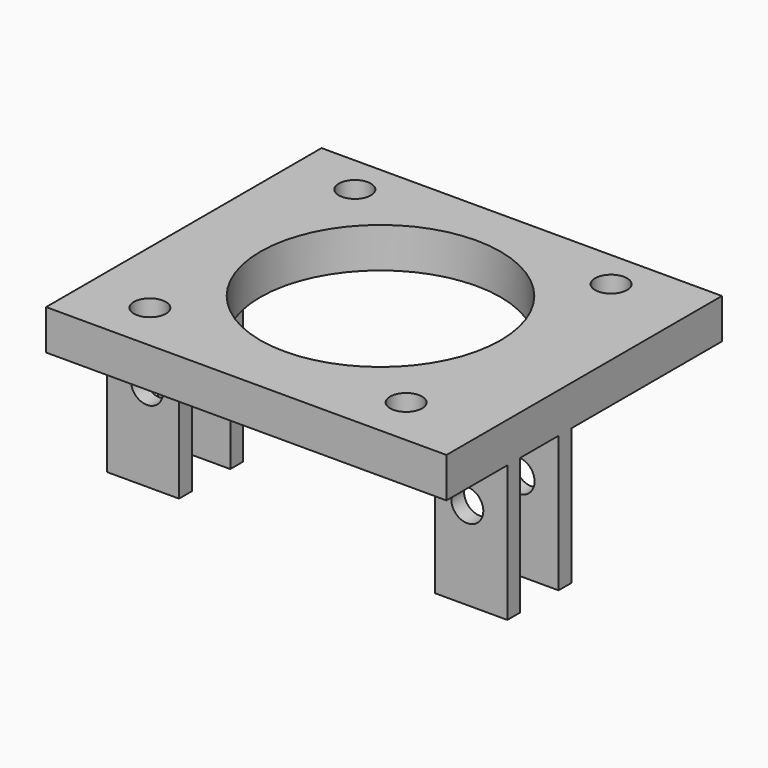
from build123d import *

# Parameters (mm, degrees)
SKETCH_W     = 50
SKETCH_H     = 43
SKETCH_R     = 15
SKETCH_R_2   = 2
PAD_DEPTH    = 5
SKETCH001_W  = 9
SKETCH001_H  = 2
PAD001_DEPTH = 17
SKETCH002_R  = 2
POCKET_DEPTH = 11


with BuildPart() as part:
    # Sketch → Pad (new body)
    with BuildSketch(Plane.XY):
        with Locations((25, 21.5)):
            Rectangle(SKETCH_W, SKETCH_H)
        with Locations((24, 22.2)):
            Circle(SKETCH_R, mode=Mode.SUBTRACT)
        with Locations((40, 38.2)):
            Circle(SKETCH_R_2, mode=Mode.SUBTRACT)
        with Locations((8, 38.2)):
            Circle(SKETCH_R_2, mode=Mode.SUBTRACT)
        with Locations((8, 6.2)):
            Circle(SKETCH_R_2, mode=Mode.SUBTRACT)
        with Locations((40, 6.2)):
            Circle(SKETCH_R_2, mode=Mode.SUBTRACT)
    extrude(amount=PAD_DEPTH)

    # Sketch001 → Pad001 (join)
    with BuildSketch(Plane.XY):
        with Locations((45.5, 10.5)):
            Rectangle(SKETCH001_W, SKETCH001_H)
        with Locations((4.5, 10.5)):
            Rectangle(SKETCH001_W, SKETCH001_H)
        with Locations((4.5, 18.5)):
            Rectangle(SKETCH001_W, SKETCH001_H)
        with Locations((45.5, 18.5)):
            Rectangle(SKETCH001_W, SKETCH001_H)
    extrude(amount=-PAD001_DEPTH)

    # Sketch002 (on Face10 of Pad001) → Pocket (cut)
    with BuildSketch(Plane(origin=(0, 19.5, 0), x_dir=(-1, 0, 0), z_dir=(0, 1, 0))):
        with Locations((-5, -6)):
            Circle(SKETCH002_R)
        with Locations((-45, -6)):
            Circle(SKETCH002_R)
    extrude(amount=-POCKET_DEPTH, mode=Mode.SUBTRACT)


solid = part.part
